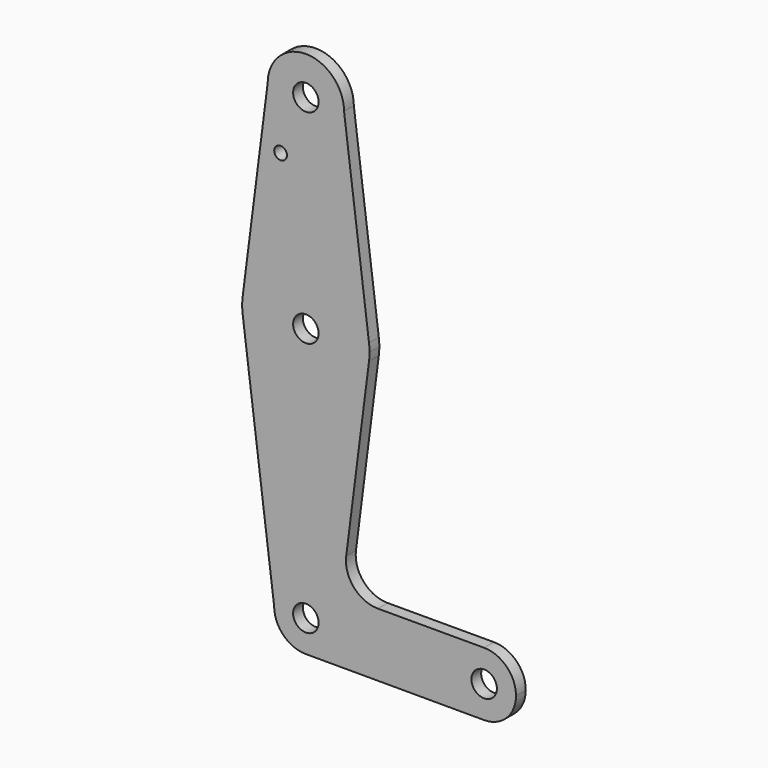
from build123d import *

# Parameters (mm, degrees)
F0_R     = 3.175
F0_R_2   = 1.5875
F1_DEPTH = 3.048


with BuildPart() as f1:
    # F0 (on Front) → F1 (new body)
    with BuildSketch(Plane.XZ):
        with BuildLine():
            ThreePointArc((44.44426, -7.937498), (50.06063, -5.614689), (52.3875, 0))
            ThreePointArc((52.3875, 0), (50.06063, 5.614689), (44.44426, 7.937498))
            ThreePointArc((44.44426, 7.937498), (36.5125, 0), (44.44426, -7.937498))
        make_face()
        with Locations((44.45, 0)):
            Circle(F0_R, mode=Mode.SUBTRACT)
        with BuildLine():
            ThreePointArc((44.44426, -7.937498), (36.5125, 0), (44.44426, 7.937498))
            Line((44.44426, 7.937498), (17.949427, 7.918338))
            ThreePointArc((17.949427, 7.918338), (11.978937, 10.612345), (10.057351, 16.874287))
            Line((10.057351, 16.874287), (15.747457, 61.491711))
            ThreePointArc((15.747457, 61.491711), (0, 47.625), (-15.747457, 61.491711))
            Line((-15.747457, 61.491711), (-7.905356, 0))
            ThreePointArc((-7.905356, 0), (0, 7.905356), (7.905356, 0))
            ThreePointArc((7.905356, 0), (5.589931, -5.589931), (0, -7.905356))
            Line((0, -7.905356), (44.44426, -7.937498))
        make_face()
        with BuildLine():
            ThreePointArc((-7.905356, 0), (-5.589931, -5.589931), (0, -7.905356))
            ThreePointArc((0, -7.905356), (5.589931, -5.589931), (7.905356, 0))
            ThreePointArc((7.905356, 0), (0, 7.905356), (-7.905356, 0))
        make_face()
        Circle(F0_R, mode=Mode.SUBTRACT)
        with BuildLine():
            ThreePointArc((-15.747457, 61.491711), (0, 47.625), (15.747457, 61.491711))
            ThreePointArc((15.747457, 61.491711), (15.843082, 62.493832), (15.875, 63.5))
            ThreePointArc((15.875, 63.5), (15.843082, 64.506168), (15.747457, 65.508289))
            ThreePointArc((15.747457, 65.508289), (0, 79.375), (-15.747457, 65.508289))
            ThreePointArc((-15.747457, 65.508289), (-15.875, 63.5), (-15.747457, 61.491711))
        make_face()
        with Locations((0, 63.5)):
            Circle(F0_R, mode=Mode.SUBTRACT)
        with BuildLine():
            Line((-9.525, 114.3), (-15.747457, 65.508289))
            ThreePointArc((-15.747457, 65.508289), (0, 79.375), (15.747457, 65.508289))
            Line((15.747457, 65.508289), (9.525, 114.3))
            ThreePointArc((9.525, 114.3), (0, 104.775), (-9.525, 114.3))
        make_face()
        with Locations((-6.298599, 100.0252)):
            Circle(F0_R_2, mode=Mode.SUBTRACT)
        with BuildLine():
            ThreePointArc((9.525, 114.3), (0, 123.825), (-9.525, 114.3))
            ThreePointArc((-9.525, 114.3), (0, 104.775), (9.525, 114.3))
        make_face()
        with Locations((0, 114.3)):
            Circle(F0_R, mode=Mode.SUBTRACT)
    extrude(amount=F1_DEPTH)


solid = f1.part
